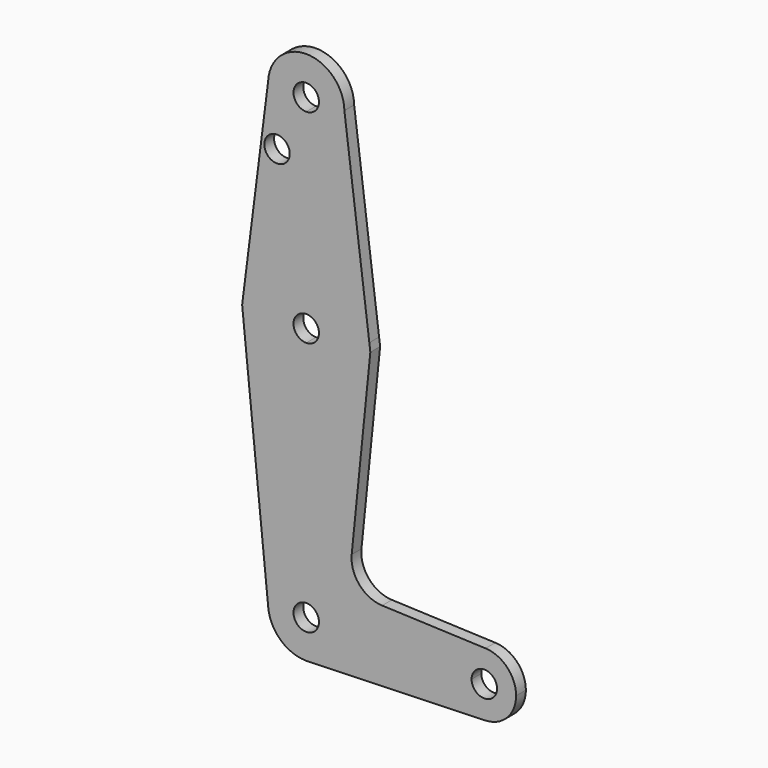
from build123d import *

# Parameters (mm, degrees)
F0_R     = 3.175
F1_DEPTH = 3.048


with BuildPart() as f1:
    # F0 (on Front) → F1 (new body)
    with BuildSketch(Plane.XZ):
        with BuildLine():
            ThreePointArc((0, -15.875), (11.2253201513, -11.2253201513), (15.875, 0))
            ThreePointArc((15.875, 0), (15.8432839375, 1.0029850821), (15.7482624788, 2.0019625121))
            ThreePointArc((15.7482624788, 2.0019625121), (10.4936759555, 11.9121110614), (0, 15.875))
            Line((0, 15.875), (0, 3.175))
            ThreePointArc((0, 3.175), (2.2450640303, 2.2450640303), (3.175, 0))
            ThreePointArc((3.175, 0), (2.2450640303, -2.2450640303), (0, -3.175))
            Line((0, -3.175), (0, -15.875))
        make_face()
        with BuildLine():
            ThreePointArc((15.7482624788, 2.0019625121), (15.8432839375, 1.0029850821), (15.875, 0))
            ThreePointArc((15.875, 0), (11.2253201513, -11.2253201513), (0, -15.875))
            Line((0, -15.875), (0, -53.975))
            ThreePointArc((0, -53.975), (6.7351920908, -56.7648079092), (9.525, -63.5))
            ThreePointArc((9.525, -63.5), (9.5249822261, -63.5184008892), (9.5249289044, -63.5368017097))
            Line((9.5249289044, -63.5368017097), (36.5122274669, -63.6410732205))
            ThreePointArc((36.5122274669, -63.6410732205), (38.9597785662, -57.9389393937), (44.762475663, -55.7404073917))
            Line((44.762475663, -55.7404073917), (18.944236818, -54.7221502684))
            ThreePointArc((18.944236818, -54.7221502684), (13.2556432609, -51.9918445154), (11.3477811836, -45.9773014357))
            Line((11.3477811836, -45.9773014357), (16.0027575185, 0))
            Line((16.0027575185, 0), (15.7482624788, 2.0019625121))
        make_face()
        with BuildLine():
            ThreePointArc((0, 15.875), (10.4936759555, 11.9121110614), (15.7482624788, 2.0019625121))
            Line((15.7482624788, 2.0019625121), (9.5235109901, 50.9684144328))
            ThreePointArc((9.5235109901, 50.9684144328), (9.5246277403, 50.8842105076), (9.525, 50.8))
            ThreePointArc((9.525, 50.8), (6.7351920908, 44.0648079092), (0, 41.275))
            Line((0, 41.275), (0, 15.875))
        make_face()
        with BuildLine():
            Line((0, -53.975), (0, -15.875))
            ThreePointArc((0, -15.875), (-11.9101395514, -10.4959135317), (-15.7490135285, 1.9960455603))
            Line((-15.7490135285, 1.9960455603), (-16.0019942809, 0))
            Line((-16.0019942809, 0), (-9.4765650411, -64.4593435369))
            ThreePointArc((-9.4765650411, -64.4593435369), (-7.0662356382, -57.1129866991), (0, -53.975))
        make_face()
        with BuildLine():
            ThreePointArc((-15.7490135285, 1.9960455603), (-11.9101395514, -10.4959135317), (0, -15.875))
            Line((0, -15.875), (0, -3.175))
            ThreePointArc((0, -3.175), (-3.175, 0), (0, 3.175))
            Line((0, 3.175), (0, 15.875))
            ThreePointArc((0, 15.875), (-10.4959135317, 11.9101395514), (-15.7490135285, 1.9960455603))
        make_face()
        with BuildLine():
            ThreePointArc((-15.7490135285, 1.9960455603), (-10.4959135317, 11.9101395514), (0, 15.875))
            Line((0, 15.875), (0, 41.275))
            ThreePointArc((0, 41.275), (-6.8602458057, 44.1922278727), (-9.5183078259, 51.1569889794))
            Line((-9.5183078259, 51.1569889794), (-15.7490135285, 1.9960455603))
        make_face()
        with Locations((-7.2940262035, 37.0539799333)):
            Circle(F0_R, mode=Mode.SUBTRACT)
        with BuildLine():
            ThreePointArc((9.525, 50.8), (9.5246277403, 50.8842105076), (9.5235109901, 50.9684144328))
            ThreePointArc((9.5235109901, 50.9684144328), (0.094323158, 60.3245329619), (-9.5183078259, 51.1569889794))
            ThreePointArc((-9.5183078259, 51.1569889794), (-6.8602458057, 44.1922278727), (0, 41.275))
            ThreePointArc((0, 41.275), (6.7351920908, 44.0648079092), (9.525, 50.8))
        make_face()
        with BuildLine():
            ThreePointArc((3.175, 50.8), (2.2450640303, 48.5549359697), (0, 47.625))
            ThreePointArc((0, 47.625), (-2.2450640303, 53.0450640303), (3.175, 50.8))
        make_face(mode=Mode.SUBTRACT)
        with BuildLine():
            Line((0, -60.325), (0, -53.975))
            ThreePointArc((0, -53.975), (-7.0662356382, -57.1129866991), (-9.4765650411, -64.4593435369))
            ThreePointArc((-9.4765650411, -64.4593435369), (-6.3870133009, -70.5662356382), (0, -73.025))
            Line((0, -73.025), (0.6044331807, -73.0058027294))
            ThreePointArc((0.6044331807, -73.0058027294), (6.9330000101, -70.0313961646), (9.5249289044, -63.5368017097))
            Line((9.5249289044, -63.5368017097), (3.1749763015, -63.5122672366))
            ThreePointArc((3.1749763015, -63.5122672366), (-2.2493969721, -65.7407227097), (0, -60.325))
        make_face()
        with BuildLine():
            Line((36.5122274669, -63.6410732205), (9.5249289044, -63.5368017097))
            ThreePointArc((9.5249289044, -63.5368017097), (6.9330000101, -70.0313961646), (0.6044331807, -73.0058027294))
            Line((0.6044331807, -73.0058027294), (44.7016423876, -71.6052408719))
            ThreePointArc((44.7016423876, -71.6052408719), (38.9158096428, -69.3621117296), (36.5122274669, -63.6410732205))
        make_face()
        with BuildLine():
            Line((0.6044331807, -73.0058027294), (0, -73.025))
            ThreePointArc((0, -73.025), (0.302368982, -73.0201994726), (0.6044331807, -73.0058027294))
        make_face()
        with BuildLine():
            ThreePointArc((52.3871682206, -63.6717413119), (50.1718537875, -58.1707869776), (44.762475663, -55.7404073917))
            ThreePointArc((44.762475663, -55.7404073917), (38.9597785662, -57.9389393937), (36.5122274669, -63.6410732205))
            ThreePointArc((36.5122274669, -63.6410732205), (38.9158096428, -69.3621117296), (44.7016423876, -71.6052408719))
            ThreePointArc((44.7016423876, -71.6052408719), (50.1507186151, -69.1945966105), (52.3871682206, -63.6717413119))
        make_face()
        with BuildLine():
            ThreePointArc((47.6246682206, -63.6717413119), (44.4435345909, -66.8467353872), (41.2746919191, -63.6594740753))
            ThreePointArc((41.2746919191, -63.6594740753), (44.4558018503, -60.4967472365), (47.6246682206, -63.6717413119))
        make_face(mode=Mode.SUBTRACT)
        with BuildLine():
            ThreePointArc((9.525, -63.5), (6.7351920908, -56.7648079092), (0, -53.975))
            Line((0, -53.975), (0, -60.325))
            ThreePointArc((0, -60.325), (2.2450640303, -61.2549359697), (3.175, -63.5))
            ThreePointArc((3.175, -63.5), (3.1749940754, -63.5061336297), (3.1749763015, -63.5122672366))
            Line((3.1749763015, -63.5122672366), (9.5249289044, -63.5368017097))
            ThreePointArc((9.5249289044, -63.5368017097), (9.5249822261, -63.5184008892), (9.525, -63.5))
        make_face()
    extrude(amount=F1_DEPTH)


solid = f1.part
